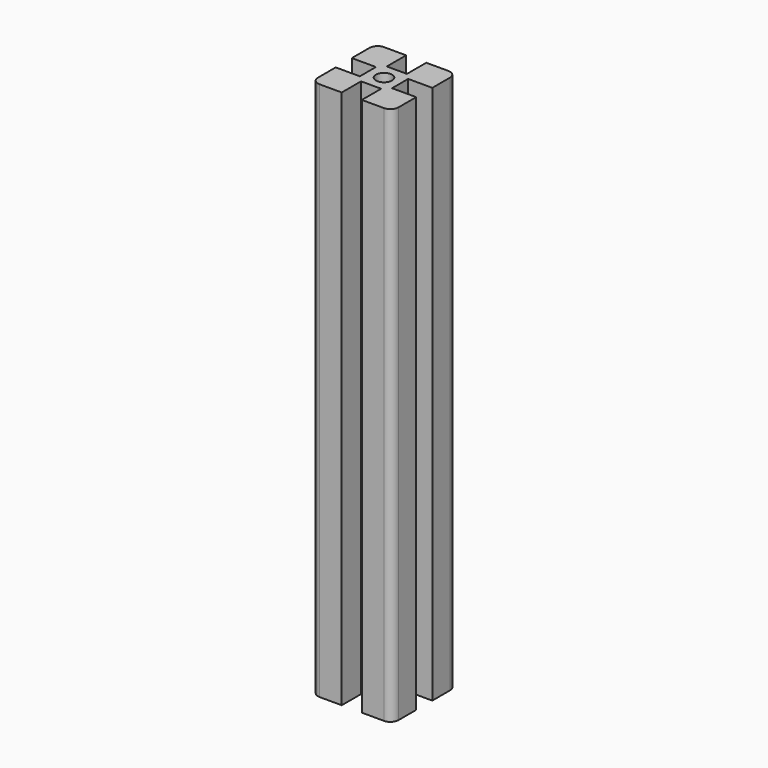
from build123d import *

# Parameters (mm, degrees)
F0_R     = 2
F1_DEPTH = 134
F2_R     = 2


with BuildPart() as f1:
    # F0 (on Top) → F1 (new body)
    with BuildSketch(Plane.XY):
        Polygon((-4, 2.5), (-4, 0), (-4, -2.5), (-10, -2.5), (-10, -10), (-2.5, -10), (-2.5, -4), (0, -4), (2.5, -4), (2.5, -10), (10, -10), (10, -2.5), (4, -2.5), (4, 0), (4, 2.5), (10, 2.5), (10, 10), (2.5, 10), (2.5, 4), (0, 4), (-2.5, 4), (-2.5, 10), (-10, 10), (-10, 2.5), align=None)
        Circle(F0_R, mode=Mode.SUBTRACT)
    extrude(amount=F1_DEPTH)

    # F2
    f2_edges = [f1.edges().sort_by_distance(p)[0] for p in [
        (10, -10, 67),
        (-10, -10, 67),
        (-10, 10, 67),
        (10, 10, 67),
    ]]
    fillet(f2_edges, radius=F2_R)


solid = f1.part
